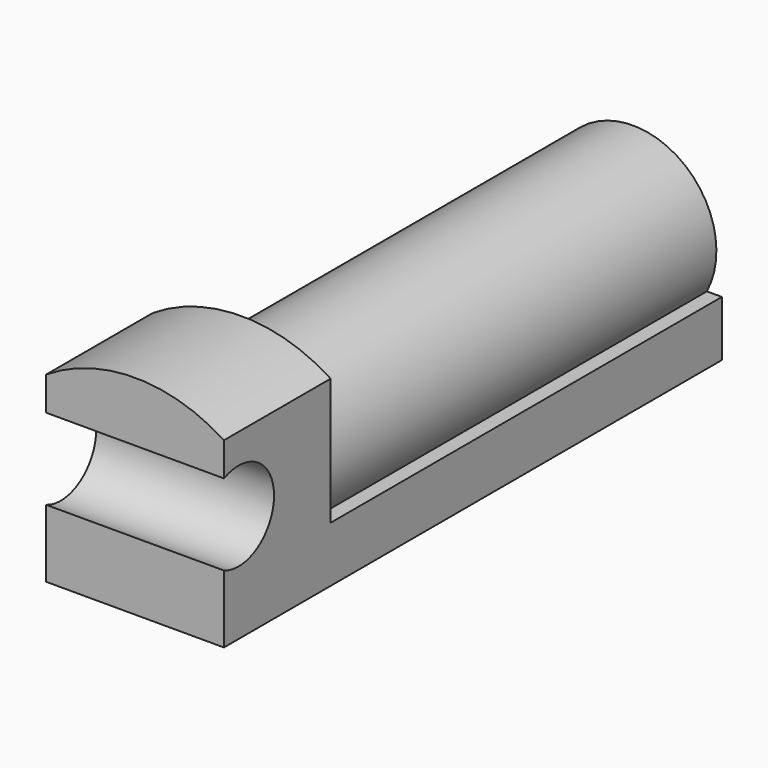
from build123d import *

# Parameters (mm, degrees)
F1_DEPTH = 139.7
F2_W     = 50.8
F2_H     = 52.107124
F3_DEPTH = 38.1
F5_DEPTH = 50.8


with BuildPart() as f1:
    # F0 (on Front) → F1 (new body)
    with BuildSketch(Plane.XZ):
        with BuildLine():
            Line((-25.4, 0), (0, 0))
            Line((0, 0), (25.4, 0))
            Line((25.4, 0), (25.4, 15.875))
            Line((25.4, 15.875), (21.106379, 15.875))
            ThreePointArc((21.106379, 15.875), (0, 50.741647), (-21.106379, 15.875))
            Line((-21.106379, 15.875), (-25.4, 15.875))
            Line((-25.4, 15.875), (-25.4, 0))
        make_face()
    extrude(amount=F1_DEPTH)

    # F2 (on face) → F3 (join)
    with BuildSketch(Plane.XZ.offset(139.7)):
        with BuildLine():
            Line((-25.4, 52.107124), (25.4, 52.107124))
            ThreePointArc((25.4, 52.107124), (0, 59.583701), (-25.4, 52.107124))
        make_face()
        with Locations((0, 26.053562)):
            Rectangle(F2_W, F2_H)
    extrude(amount=F3_DEPTH)

    # F4 (on face) → F5 (cut)
    with BuildSketch(Plane.YZ.offset(25.4)):
        with BuildLine():
            Line((-177.8, 42.519599), (-177.8, 19.3548))
            ThreePointArc((-177.8, 19.3548), (-159.914738, 30.937199), (-177.8, 42.519599))
        make_face()
    extrude(amount=-F5_DEPTH, mode=Mode.SUBTRACT)


solid = f1.part
